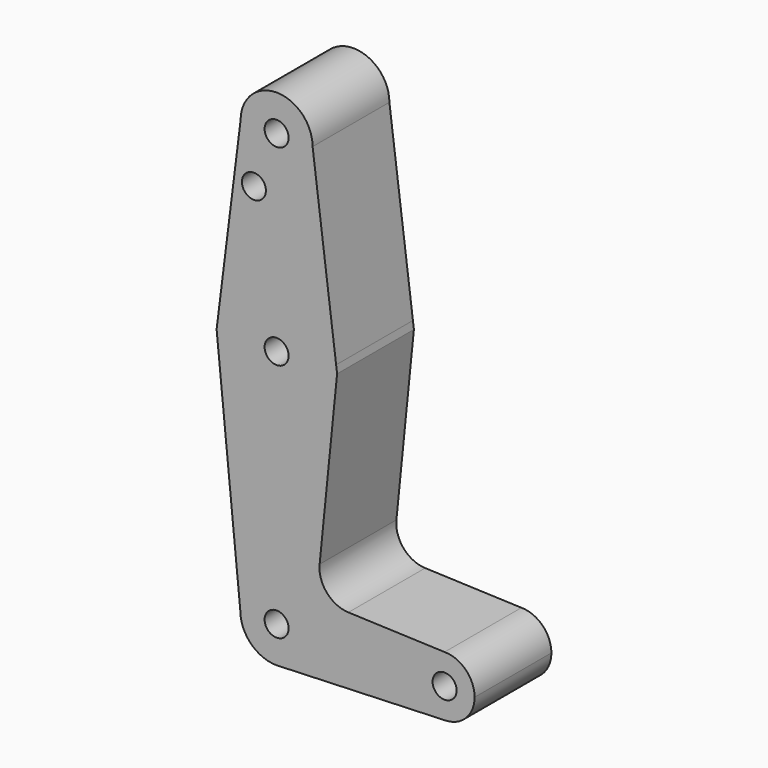
from build123d import *

# Parameters (mm, degrees)
F0_R     = 3.175
F1_DEPTH = 25.4


with BuildPart() as f1:
    # F0 (on Front) → F1 (new body)
    with BuildSketch(Plane.XZ):
        with BuildLine():
            ThreePointArc((-9.602438, 0), (0, 9.602438), (9.602438, 0))
            ThreePointArc((9.602438, 0), (7.038529, -6.531916), (0.715959, -9.57571))
            Line((0.715959, -9.57571), (44.746117, -7.931975))
            ThreePointArc((44.746117, -7.931975), (36.513881, -0.148084), (44.45, 7.9375))
            Line((44.45, 7.9375), (18.991657, 8.894967))
            ThreePointArc((18.991657, 8.894967), (13.294448, 11.619044), (11.380335, 17.636931))
            Line((11.380335, 17.636931), (16.003576, 63.5))
            Line((16.003576, 63.5), (15.747457, 65.508289))
            ThreePointArc((15.747457, 65.508289), (15.843082, 64.506168), (15.875, 63.5))
            ThreePointArc((15.875, 63.5), (1.560545, 47.701889), (-15.56819, 60.394026))
            Line((-15.56819, 60.394026), (-9.602438, 0))
        make_face()
        with BuildLine():
            Line((-9.525, 114.3), (-15.386538, 67.407692))
            ThreePointArc((-15.386538, 67.407692), (0.966695, 79.34554), (15.747457, 65.508289))
            Line((15.747457, 65.508289), (9.525, 114.3))
            ThreePointArc((9.525, 114.3), (0, 104.775), (-9.525, 114.3))
        make_face()
        with Locations((-6.005472, 100.0252)):
            Circle(F0_R, mode=Mode.SUBTRACT)
        with BuildLine():
            Line((-15.875, 63.5), (-15.56819, 60.394026))
            ThreePointArc((-15.56819, 60.394026), (1.560545, 47.701889), (15.875, 63.5))
            ThreePointArc((15.875, 63.5), (15.843082, 64.506168), (15.747457, 65.508289))
            ThreePointArc((15.747457, 65.508289), (0.966695, 79.34554), (-15.386538, 67.407692))
            Line((-15.386538, 67.407692), (-15.875, 63.5))
        make_face()
        with Locations((0, 63.5)):
            Circle(F0_R, mode=Mode.SUBTRACT)
        with BuildLine():
            ThreePointArc((0.715959, -9.57571), (7.038529, -6.531916), (9.602438, 0))
            ThreePointArc((9.602438, 0), (0, 9.602438), (-9.602438, 0))
            ThreePointArc((-9.602438, 0), (-6.789949, -6.789949), (0, -9.602438))
            Line((0, -9.602438), (0.715959, -9.57571))
        make_face()
        Circle(F0_R, mode=Mode.SUBTRACT)
        with BuildLine():
            ThreePointArc((44.45, 7.9375), (36.513881, -0.148084), (44.746117, -7.931975))
            ThreePointArc((44.746117, -7.931975), (50.166395, -5.506972), (52.3875, 0))
            ThreePointArc((52.3875, 0), (50.06266, 5.61266), (44.45, 7.9375))
        make_face()
        with Locations((44.45, 0)):
            Circle(F0_R, mode=Mode.SUBTRACT)
        with BuildLine():
            ThreePointArc((9.525, 114.3), (0, 123.825), (-9.525, 114.3))
            ThreePointArc((-9.525, 114.3), (0, 104.775), (9.525, 114.3))
        make_face()
        with Locations((0, 114.3)):
            Circle(F0_R, mode=Mode.SUBTRACT)
    extrude(amount=F1_DEPTH)


solid = f1.part
